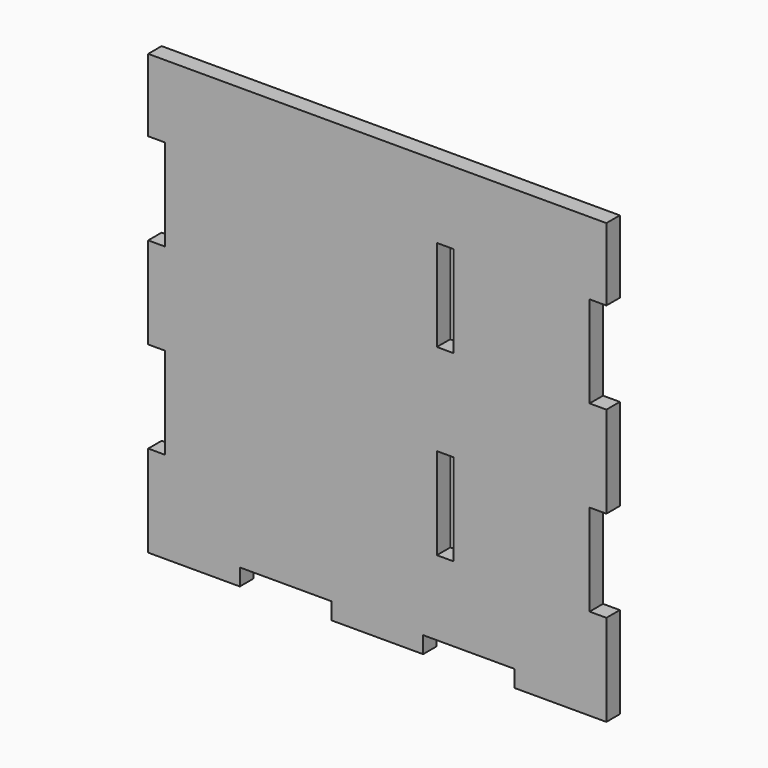
from build123d import *

# Parameters (mm, degrees)
F0_W     = 152.4
F0_H     = 146.05
F1_DEPTH = 5.588
F2_W     = 5.588
F2_H     = 30.48
F2_W_2   = 30.48
F2_H_2   = 5.588
F3_DEPTH = 5.589


with BuildPart() as f1:
    # F0 (on Front) → F1 (new body)
    with BuildSketch(Plane.XZ):
        Rectangle(F0_W, F0_H)
    extrude(amount=F1_DEPTH)

    # F2 (on face) → F3 (cut, through all)
    with BuildSketch(Plane.XZ.offset(5.588)):
        with Locations((-73.406, 33.655)):
            Rectangle(F2_W, F2_H)
        with Locations((22.606, 33.655)):
            Rectangle(F2_W, F2_H)
        with Locations((73.406, 33.655)):
            Rectangle(F2_W, F2_H)
        with Locations((73.406, -27.305)):
            Rectangle(F2_W, F2_H)
        with Locations((22.606, -27.305)):
            Rectangle(F2_W, F2_H)
        with Locations((-73.406, -27.305)):
            Rectangle(F2_W, F2_H)
        with Locations((-30.48, -70.231)):
            Rectangle(F2_W_2, F2_H_2)
        with Locations((30.48, -70.231)):
            Rectangle(F2_W_2, F2_H_2)
    extrude(amount=-F3_DEPTH, mode=Mode.SUBTRACT)


solid = f1.part
